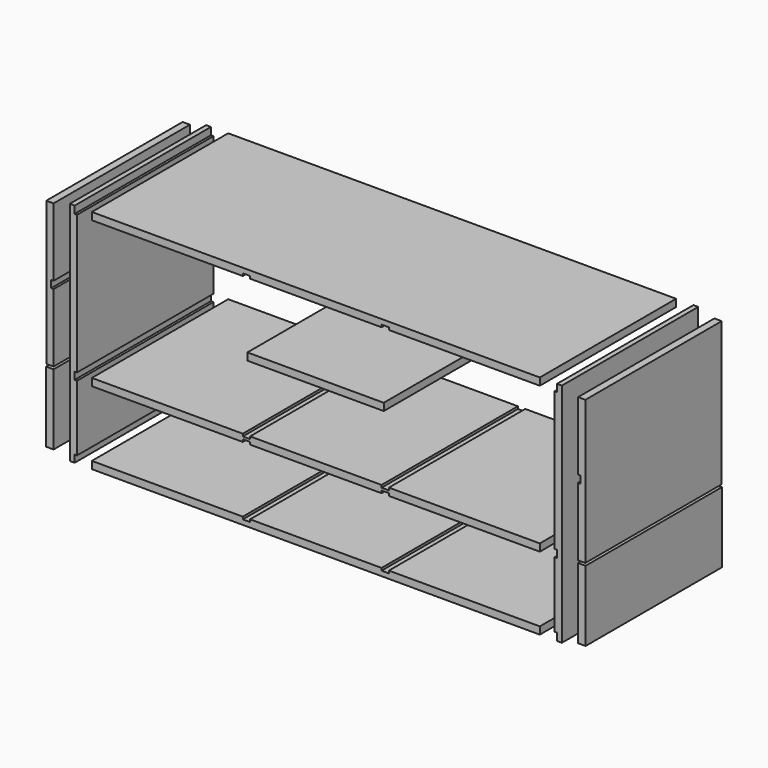
from build123d import *

# Parameters (mm, degrees)
F1_DEPTH = 444.5
F0_W     = 355.6
F0_H     = 19.05
F0_W_2   = 19.588351
F0_H_2   = 184.15
F2_DEPTH = 444.5


with BuildPart() as f1:
    # F0 (on Front) → F1 (new body)
    with BuildSketch(Plane.XZ):
        Polygon((-629.053712, 219.37638), (-641.753712, 219.37638), (-641.753712, -371.17362), (-629.053712, -371.17362), (-629.053712, -352.12362), (-622.703712, -352.12362), (-622.703712, -180.67362), (-629.053712, -180.67362), (-629.053712, -161.62362), (-622.703712, -161.62362), (-622.703712, 200.32638), (-629.053712, 200.32638), align=None)
        Polygon((-190.5, -352.12362), (-584.2, -352.12362), (-584.2, -371.17362), (584.2, -371.17362), (584.2, -352.12362), (190.5, -352.12362), (190.5, -358.47362), (171.45, -358.47362), (171.45, -352.12362), (-171.45, -352.12362), (-171.45, -358.47362), (-190.5, -358.47362), align=None)
        Polygon((622.703712, 200.32638), (622.703712, -161.62362), (629.053712, -161.62362), (629.053712, -180.67362), (622.703712, -180.67362), (622.703712, -352.12362), (629.053712, -352.12362), (629.053712, -371.17362), (641.753712, -371.17362), (641.753712, 219.37638), (629.053712, 219.37638), (629.053712, 200.32638), align=None)
    extrude(amount=-F1_DEPTH)


with BuildPart() as f2:
    # F0 (on Front) → F2 (new body)
    with BuildSketch(Plane.XZ):
        Polygon((584.2, 219.37638), (-584.2, 219.37638), (-584.2, 200.32638), (-190.5, 200.32638), (-190.5, 206.67638), (-171.45, 206.67638), (-171.45, 200.32638), (171.45, 200.32638), (171.45, 206.67638), (190.5, 206.67638), (190.5, 200.32638), (584.2, 200.32638), align=None)
        Polygon((-702.981649, 206.67638), (-702.981649, -167.97362), (-683.931649, -167.97362), (-683.931649, 9.82638), (-690.281649, 9.82638), (-690.281649, 28.87638), (-683.931649, 28.87638), (-683.931649, 206.67638), align=None)
        with Locations((-0.647452, 19.35138)):
            Rectangle(F0_W, F0_H)
        with Locations((-693.725825, -266.39862)):
            Rectangle(F0_W_2, F0_H_2)
        with Locations((693.725825, -266.39862)):
            Rectangle(F0_W_2, F0_H_2)
        Polygon((702.981649, -167.97362), (702.981649, 206.67638), (683.931649, 206.67638), (683.931649, 28.87638), (690.281649, 28.87638), (690.281649, 9.82638), (683.931649, 9.82638), (683.931649, -167.97362), align=None)
        Polygon((-584.2, -161.62362), (-584.2, -180.67362), (-190.5, -180.67362), (-190.5, -174.32362), (-171.45, -174.32362), (-171.45, -180.67362), (171.45, -180.67362), (171.45, -174.32362), (190.5, -174.32362), (190.5, -180.67362), (584.2, -180.67362), (584.2, -161.62362), (190.5, -161.62362), (190.5, -167.97362), (171.45, -167.97362), (171.45, -161.62362), (-171.45, -161.62362), (-171.45, -167.97362), (-190.5, -167.97362), (-190.5, -161.62362), align=None)
    extrude(amount=-F2_DEPTH)


solid = Compound([f1.part, f2.part])
